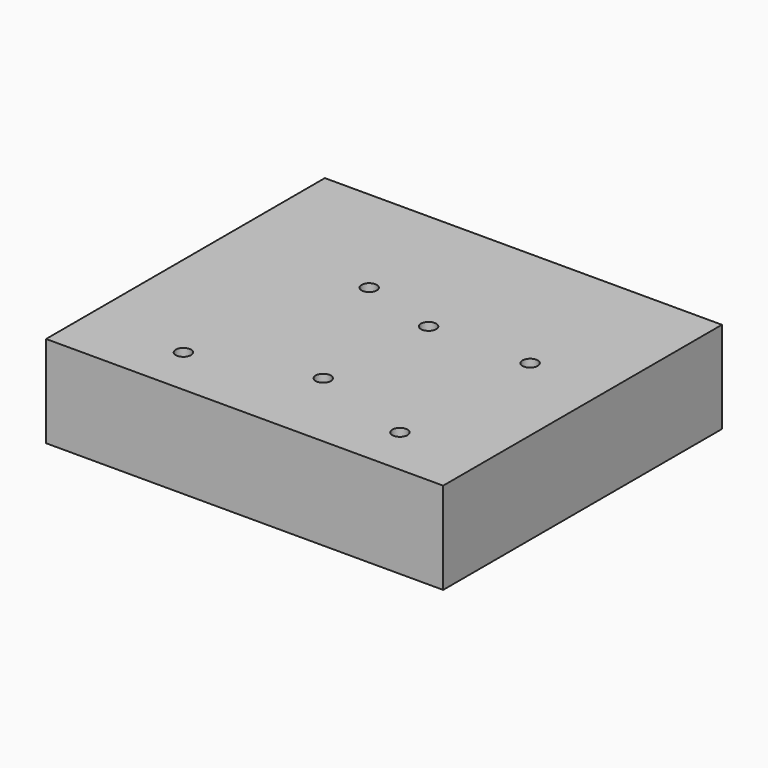
from build123d import *

# Parameters (mm, degrees)
F0_W     = 109.8725795746
F0_H     = 96.4100509882
F1_DEPTH = 25.4
F3_D     = 4.2


with BuildPart() as f1:
    # F0 (on Top) → F1 (new body)
    with BuildSketch(Plane.XY):
        Rectangle(F0_W, F0_H)
    extrude(amount=F1_DEPTH)

    # F3 (through all)
    with Locations(Plane.XY.offset(25.4)):
        with Locations((-27.8564244509, -34.5673300326), (-15.4279861599, 14.1568621621), (5.9229629114, 8.01777374), (33.7983295321, 8.2835806534), (32.0603661239, -34.5673300326), (3.3077781554, -25.1481775194)):
            Hole(F3_D / 2)


solid = f1.part
